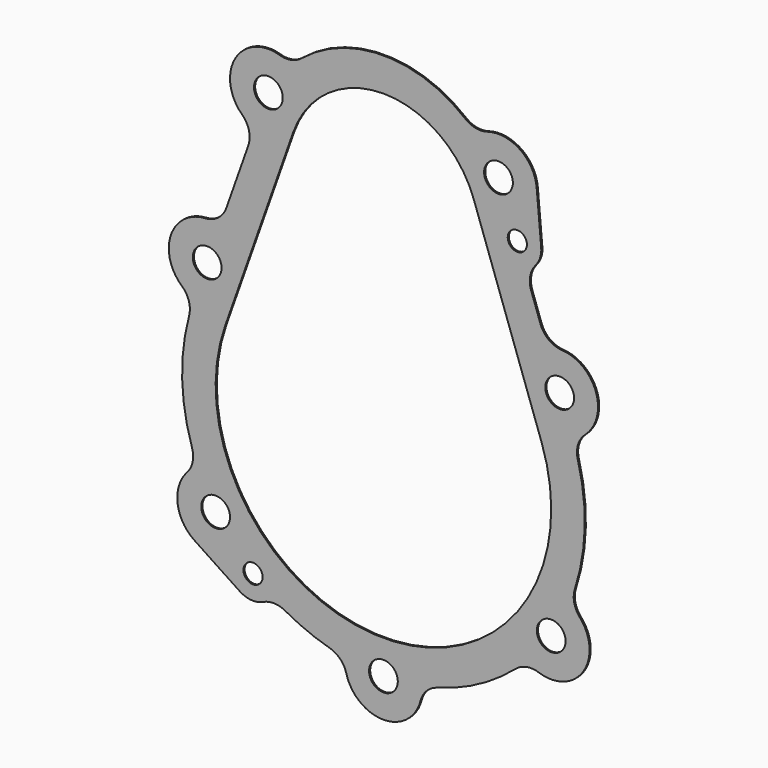
from build123d import *

# Parameters (mm, degrees)
F0_R     = 3
F0_R_2   = 2
F1_DEPTH = 0.3


with BuildPart() as f1:
    # F0 (on Front) → F1 (new body)
    with BuildSketch(Plane.XZ):
        with BuildLine():
            ThreePointArc((21.670889, 20.022763), (19.250386, 19.900136), (17.05657, 20.930204))
            ThreePointArc((17.05657, 20.930204), (0, 27), (-17.05657, 20.930204))
            ThreePointArc((-17.05657, 20.930204), (-19.250386, 19.900136), (-21.670889, 20.022763))
            ThreePointArc((-21.670889, 20.022763), (-30.920732, 16.38223), (-29.485281, 6.545942))
            ThreePointArc((-29.485281, 6.545942), (-28.0542, 4.083792), (-28.199536, 1.239666))
            Line((-28.199536, 1.239666), (-32.769553, -11.686292))
            ThreePointArc((-32.769553, -11.686292), (-34.485775, -14.021257), (-37.208965, -15.012077))
            ThreePointArc((-37.208965, -15.012077), (-44.32696, -20.375958), (-42.064669, -28.996811))
            ThreePointArc((-42.064669, -28.996811), (-40.585524, -31.306286), (-40.547083, -34.04856))
            ThreePointArc((-40.547083, -34.04856), (-41.986361, -46.070271), (-39.936462, -58.003039))
            ThreePointArc((-39.936462, -58.003039), (-39.797967, -60.58066), (-40.963571, -62.883848))
            ThreePointArc((-40.963571, -62.883848), (-42.935234, -69.23228), (-39.427861, -74.879259))
            Line((-39.427861, -74.879259), (-29.970354, -81.164303))
            ThreePointArc((-29.970354, -81.164303), (-27.561454, -81.98713), (-25.05963, -81.517324))
            ThreePointArc((-25.05963, -81.517324), (-22.750585, -81.037396), (-20.478412, -81.66926))
            ThreePointArc((-20.478412, -81.66926), (-15.972467, -83.844308), (-11.239844, -85.468085))
            ThreePointArc((-11.239844, -85.468085), (-9.01527, -86.777506), (-7.740259, -89.021978))
            ThreePointArc((-7.740259, -89.021978), (0, -95), (7.740259, -89.021978))
            ThreePointArc((7.740259, -89.021978), (9.01527, -86.777506), (11.239844, -85.468085))
            ThreePointArc((11.239844, -85.468085), (19.86092, -82.007349), (27.510347, -76.736112))
            ThreePointArc((27.510347, -76.736112), (29.83121, -75.606111), (32.406393, -75.78428))
            ThreePointArc((32.406393, -75.78428), (41.666667, -72.63854), (40.963571, -62.883848))
            ThreePointArc((40.963571, -62.883848), (39.797967, -60.58066), (39.936462, -58.003039))
            ThreePointArc((39.936462, -58.003039), (41.986361, -46.070271), (40.547083, -34.04856))
            ThreePointArc((40.547083, -34.04856), (40.585524, -31.306286), (42.064669, -28.996811))
            ThreePointArc((42.064669, -28.996811), (44.32696, -20.375958), (37.208965, -15.012077))
            ThreePointArc((37.208965, -15.012077), (34.485775, -14.021257), (32.769553, -11.686292))
            Line((32.769553, -11.686292), (30.817469, -6.164966))
            ThreePointArc((30.817469, -6.164966), (30.615698, -3.584652), (31.731116, -1.24915))
            ThreePointArc((31.731116, -1.24915), (32.693172, 0.477163), (32.911198, 2.441385))
            Line((32.911198, 2.441385), (31.968768, 13.075533))
            ThreePointArc((31.968768, 13.075533), (28.474085, 19.001252), (21.670889, 20.022763))
        make_face()
        with Locations((-35, -68.216374)):
            Circle(F0_R, mode=Mode.SUBTRACT)
        with Locations((-27.202941, -77)):
            Circle(F0_R_2, mode=Mode.SUBTRACT)
        with Locations((0, -87)):
            Circle(F0_R, mode=Mode.SUBTRACT)
        with Locations((35, -68.216374)):
            Circle(F0_R, mode=Mode.SUBTRACT)
        with Locations((-36.769553, -23)):
            Circle(F0_R, mode=Mode.SUBTRACT)
        with Locations((-24, 12.369317)):
            Circle(F0_R, mode=Mode.SUBTRACT)
        with BuildLine():
            Line((-32.998316, -33.333333), (-18.856181, 6.666667))
            ThreePointArc((-18.856181, 6.666667), (0, 20), (18.856181, 6.666667))
            Line((18.856181, 6.666667), (32.998316, -33.333333))
            ThreePointArc((32.998316, -33.333333), (0, -80), (-32.998316, -33.333333))
        make_face(mode=Mode.SUBTRACT)
        with Locations((36.769553, -23)):
            Circle(F0_R, mode=Mode.SUBTRACT)
        with Locations((27.930718, 2)):
            Circle(F0_R_2, mode=Mode.SUBTRACT)
        with Locations((24, 12.369317)):
            Circle(F0_R, mode=Mode.SUBTRACT)
    extrude(amount=F1_DEPTH)


solid = f1.part
